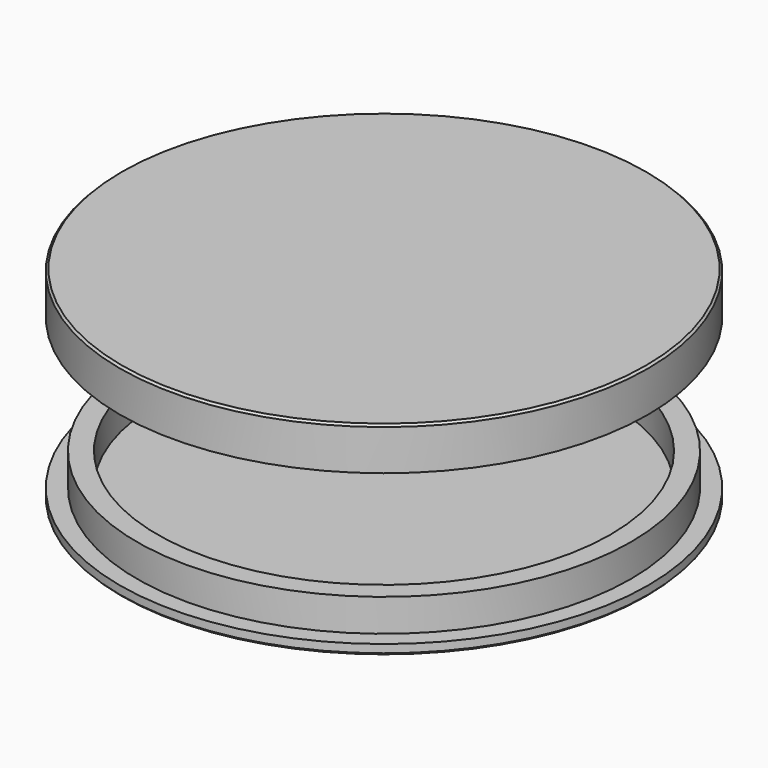
from build123d import *

# Parameters (mm, degrees)
F0_R       = 13
F1_DEPTH   = 0.5
F2_R       = 12.15
F3_DEPTH   = 1.6
F4_R       = 11.15
F5_DEPTH   = 1.6
F7_R       = 13
F8_DEPTH   = 2.1
F9_R       = 12.25
F10_DEPTH  = 1.6
F11_SIZE   = 0.1
F11_2_SIZE = 0.1


with BuildPart() as f1:
    # F0 (on Top) → F1 (new body)
    with BuildSketch(Plane.XY):
        Circle(F0_R)
    extrude(amount=F1_DEPTH)

    # F2 (on face) → F3 (join)
    with BuildSketch(Plane.XY.offset(0.5)):
        Circle(F2_R)
    extrude(amount=F3_DEPTH)

    # F4 (on face) → F5 (cut)
    with BuildSketch(Plane.XY.offset(2.1)):
        Circle(F4_R)
    extrude(amount=-F5_DEPTH, mode=Mode.SUBTRACT)

    # F11#2
    f11_2_edges = [f1.edges().sort_by_distance(p)[0] for p in [
        (-13, 0, 0),
    ]]
    chamfer(f11_2_edges, length=F11_2_SIZE)


with BuildPart() as f8:
    # F7 (on offset) → F8 (new body)
    with BuildSketch(Plane.XY.offset(10)):
        Circle(F7_R)
    extrude(amount=-F8_DEPTH)

    # F9 (on face) → F10 (cut)
    with BuildSketch(Plane(origin=(0, 0, 7.9), x_dir=(1, 0, 0), z_dir=(0, 0, -1))):
        Circle(F9_R)
    extrude(amount=-F10_DEPTH, mode=Mode.SUBTRACT)

    # F11
    f11_edges = [f8.edges().sort_by_distance(p)[0] for p in [
        (-13, 0, 10),
    ]]
    chamfer(f11_edges, length=F11_SIZE)


solid = Compound([f1.part, f8.part])
